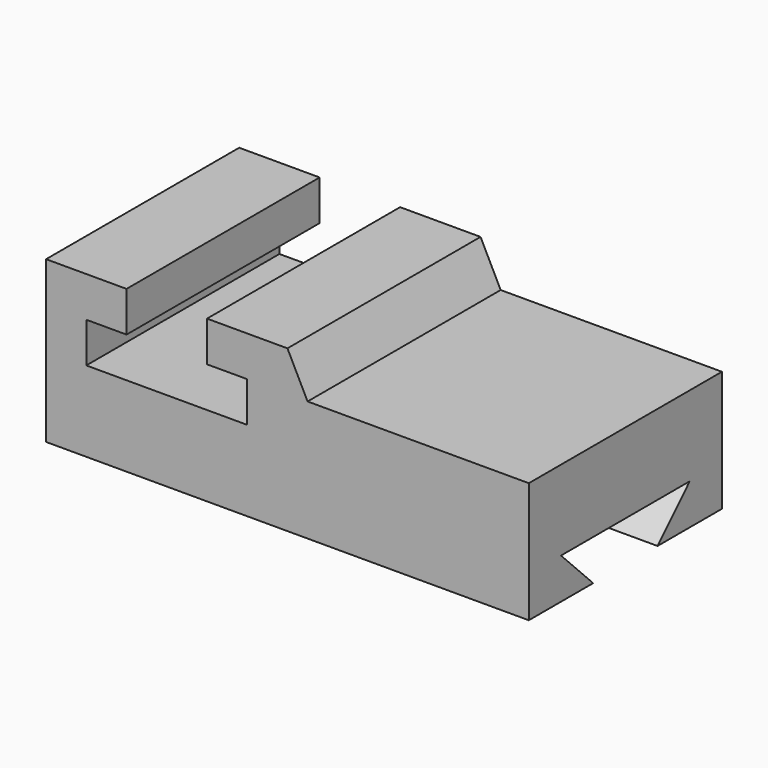
from build123d import *

# Parameters (mm, degrees)
F0_W     = 152.4
F0_H     = 50.8
F1_DEPTH = 76.2
F3_DEPTH = 92.964
F5_DEPTH = 93.472
F7_DEPTH = 203.454


with BuildPart() as f1:
    # F0 (on Front) → F1 (new body)
    with BuildSketch(Plane.XZ):
        with Locations((-76.2, 25.4)):
            Rectangle(F0_W, F0_H)
    extrude(amount=F1_DEPTH)

    # F2 (on face) → F3 (cut)
    with BuildSketch(Plane.XZ.offset(76.2)):
        Polygon((-101.6, 50.8), (-127, 50.8), (-127, 38.1), (-139.7, 38.1), (-139.7, 25.4), (-88.9, 25.4), (-88.9, 38.1), (-101.6, 38.1), align=None)
    extrude(amount=-F3_DEPTH, mode=Mode.SUBTRACT)

    # F4 (on face) → F5 (cut)
    with BuildSketch(Plane.XZ.offset(76.2)):
        Polygon((0, 50.8), (-76.2, 50.8), (-69.85, 38.1), (0, 38.1), align=None)
    extrude(amount=-F5_DEPTH, mode=Mode.SUBTRACT)

    # F6 (on face) → F7 (cut)
    with BuildSketch(Plane.YZ):
        Polygon((-63.5, 12.827001), (-50.8, 0), (-25.4, 0), (-12.7, 12.827001), align=None)
    extrude(amount=-F7_DEPTH, mode=Mode.SUBTRACT)


solid = f1.part
